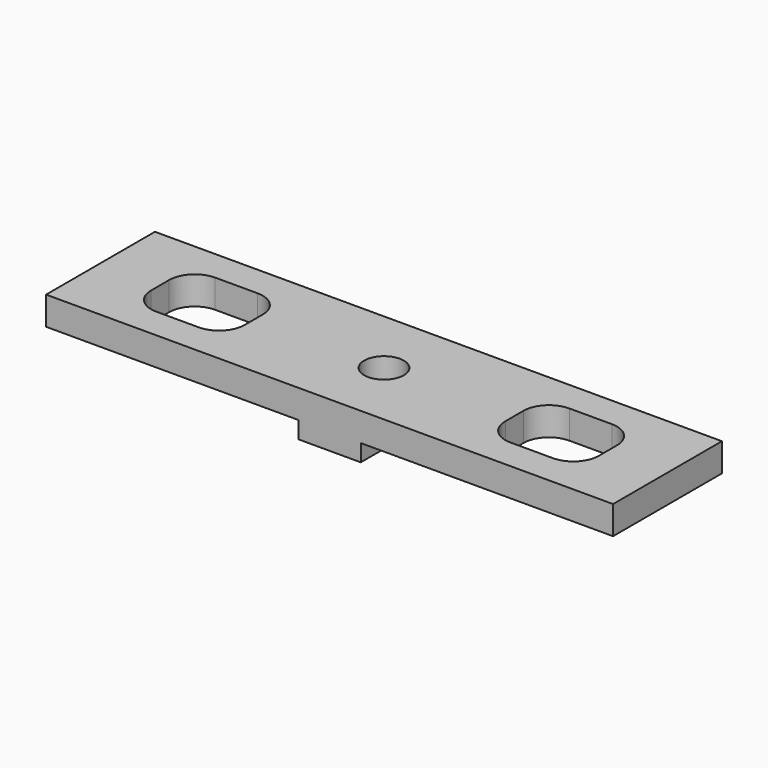
from build123d import *

# Parameters (mm, degrees)
F1_DEPTH = 48
F3_DEPTH = 10
F2_R     = 7
F2_R_2   = 4.5
F4_DEPTH = 10
F5_DEPTH = 25


with BuildPart() as f1:
    # F0 (on Front) → F1 (new body)
    with BuildSketch(Plane.XZ):
        Polygon((-100, 0), (-11, 0), (-11, -6), (11, -6), (11, 0), (100, 0), (100, 10), (-100, 10), align=None)
    extrude(amount=F1_DEPTH)

    # F2 (on face) → F3 (cut)
    with BuildSketch(Plane.XY.offset(10)):
        with BuildLine():
            Line((-78.960404, -19.989976), (-78.960404, -27.985966))
            ThreePointArc((-78.960404, -27.985966), (-76.325687, -34.346737), (-69.964915, -36.981455))
            Line((-69.964915, -36.981455), (-54.972433, -36.981455))
            ThreePointArc((-54.972433, -36.981455), (-48.611662, -34.346737), (-45.976944, -27.985966))
            Line((-45.976944, -27.985966), (-45.976944, -19.989976))
            ThreePointArc((-45.976944, -19.989976), (-48.611662, -13.629204), (-54.972433, -10.994487))
            Line((-54.972433, -10.994487), (-69.964915, -10.994487))
            ThreePointArc((-69.964915, -10.994487), (-76.325687, -13.629204), (-78.960404, -19.989976))
        make_face()
        with BuildLine():
            ThreePointArc((45.976944, -27.985966), (48.611662, -34.346737), (54.972433, -36.981455))
            Line((54.972433, -36.981455), (69.964915, -36.981455))
            ThreePointArc((69.964915, -36.981455), (76.325687, -34.346737), (78.960404, -27.985966))
            Line((78.960404, -27.985966), (78.960404, -19.989976))
            ThreePointArc((78.960404, -19.989976), (76.325687, -13.629204), (69.964915, -10.994487))
            Line((69.964915, -10.994487), (54.972433, -10.994487))
            ThreePointArc((54.972433, -10.994487), (48.611662, -13.629204), (45.976944, -19.989976))
            Line((45.976944, -19.989976), (45.976944, -27.985966))
        make_face()
    extrude(amount=-F3_DEPTH, mode=Mode.SUBTRACT)

    # F2 (on face) → F4 (cut)
    with BuildSketch(Plane.XY.offset(10)):
        with Locations((0, -24)):
            Circle(F2_R)
        with Locations((0, -24)):
            Circle(F2_R_2, mode=Mode.SUBTRACT)
    extrude(amount=-F4_DEPTH, mode=Mode.SUBTRACT)

    # F2 (on face) → F5 (cut)
    with BuildSketch(Plane.XY.offset(10)):
        with Locations((0, -24)):
            Circle(F2_R_2)
    extrude(amount=-F5_DEPTH, mode=Mode.SUBTRACT)


solid = f1.part
